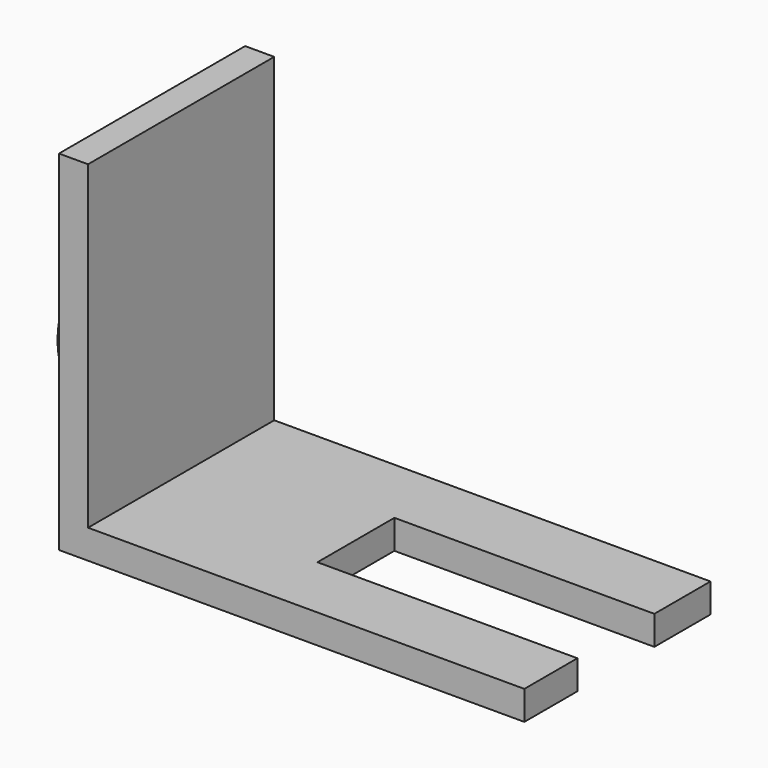
from build123d import *

# Parameters (mm, degrees)
F1_DEPTH = 80
F2_W     = 178.746274
F2_H     = 66.143535
F3_DEPTH = 25
F4_R     = 50
F5_DEPTH = 25


with BuildPart() as f1:
    # F0 (on Front) → F1 (new body, symmetric)
    with BuildSketch(Plane.XZ):
        Polygon((-151.933498, 133.443999), (-151.933498, 15.624951), (-151.933498, -106.556001), (168.066502, -106.556001), (168.066502, -86.556001), (-131.933498, -86.556001), (-131.933498, 133.443999), align=None)
    extrude(amount=F1_DEPTH, both=True)

    # F2 (on face) → F3 (cut)
    with BuildSketch(Plane.XY.offset(-86.556001)):
        with Locations((78.693365, -1.327616)):
            Rectangle(F2_W, F2_H)
    extrude(amount=-F3_DEPTH, mode=Mode.SUBTRACT)

    # F4 (on face) → F5 (join)
    with BuildSketch(Plane(origin=(-151.933498, 0, 0), x_dir=(0, -1, 0), z_dir=(-1, 0, 0))):
        Circle(F4_R)
    extrude(amount=F5_DEPTH)


solid = f1.part
